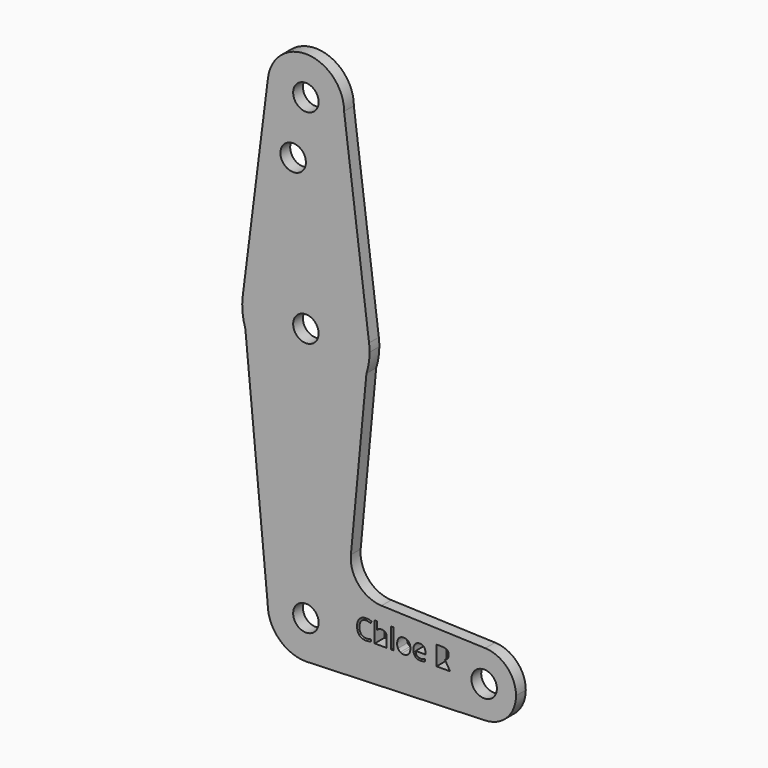
from build123d import *

# Parameters (mm, degrees)
F0_R     = 3.175
F1_DEPTH = 3.048


with BuildPart() as f1:
    # F0 (on Front) → F1 (new body)
    with BuildSketch(Plane.XZ):
        with BuildLine():
            ThreePointArc((0.6773435479, -9.500885786), (6.9705567315, -6.4912990883), (9.525, 0))
            ThreePointArc((9.525, 0), (0, 9.525), (-9.525, 0))
            ThreePointArc((-9.525, 0), (-6.7351920908, -6.7351920908), (0, -9.525))
            Line((0, -9.525), (0.6773435479, -9.500885786))
        make_face()
        Circle(F0_R, mode=Mode.SUBTRACT)
        with BuildLine():
            ThreePointArc((-9.525, 0), (0, 9.525), (9.525, 0))
            Line((9.525, 0), (14.331017163, 0))
            add(Edge.make_bspline(
                [(14.331017163, 0), (13.7183681716, 0.1397724716), (13.3282485764, 0.5757675707)],
                knots=[0.3205826669, 0.3205826669, 0.3205826669, 1, 1, 1], degree=2))
            add(Edge.make_bspline(
                [(13.3282485764, 0.5757675707), (12.7540512809, 1.2174866995), (12.7540512809, 2.3983336445)],
                knots=[0, 0, 0, 1, 1, 1], degree=2))
            add(Edge.make_bspline(
                [(12.7540512809, 2.3983336445), (12.7540512809, 3.1374098353), (13.0304197148, 3.6932872536)],
                knots=[0, 0, 0, 1, 1, 1], degree=2))
            add(Edge.make_bspline(
                [(13.0304197148, 3.6932872536), (13.3067881487, 4.2491646718), (13.8286429378, 4.5501340838)],
                knots=[0, 0, 0, 1, 1, 1], degree=2))
            add(Edge.make_bspline(
                [(13.8286429378, 4.5501340838), (14.3504977269, 4.8511034957), (15.0571215637, 4.8511034957)],
                knots=[0, 0, 0, 1, 1, 1], degree=2))
            add(Edge.make_bspline(
                [(15.0571215637, 4.8511034957), (15.808759956, 4.8511034957), (16.3719653252, 4.5768287621)],
                knots=[0, 0, 0, 1, 1, 1], degree=2))
            Line((16.3719653252, 4.5768287621), (16.1364240462, 4.0994651034))
            add(Edge.make_bspline(
                [(16.1364240462, 4.0994651034), (15.5931088295, 4.3538496847), (15.0497936128, 4.3538496847)],
                knots=[0, 0, 0, 1, 1, 1], degree=2))
            add(Edge.make_bspline(
                [(15.0497936128, 4.3538496847), (14.261515466, 4.3538496847), (13.8050888099, 3.8288543452)],
                knots=[0, 0, 0, 1, 1, 1], degree=2))
            add(Edge.make_bspline(
                [(13.8050888099, 3.8288543452), (13.3486621539, 3.3038590057), (13.3486621539, 2.3910056936)],
                knots=[0, 0, 0, 1, 1, 1], degree=2))
            add(Edge.make_bspline(
                [(13.3486621539, 2.3910056936), (13.3486621539, 1.4530279784), (13.7888626329, 0.9405948405)],
                knots=[0, 0, 0, 1, 1, 1], degree=2))
            add(Edge.make_bspline(
                [(13.7888626329, 0.9405948405), (14.229063112, 0.4281617026), (15.043512512, 0.4281617026)],
                knots=[0, 0, 0, 1, 1, 1], degree=2))
            add(Edge.make_bspline(
                [(15.043512512, 0.4281617026), (15.5439068735, 0.4281617026), (16.1856260023, 0.6082199247)],
                knots=[0, 0, 0, 1, 1, 1], degree=2))
            Line((16.1856260023, 0.6082199247), (16.1856260023, 0.1214346149))
            add(Edge.make_bspline(
                [(16.1856260023, 0.1214346149), (15.9833720986, 0.045216828), (15.7426700783, 0)],
                knots=[0, 0, 0, 0.406741787, 0.406741787, 0.406741787], degree=2))
            Line((15.7426700783, 0), (17.1476812704, 0))
            Line((17.1476812704, 0), (17.1476812704, 5.0908321752))
            Line((17.1476812704, 5.0908321752), (17.6909964871, 5.0908321752))
            Line((17.6909964871, 5.0908321752), (17.6909964871, 3.5498687859))
            add(Edge.make_bspline(
                [(17.6909964871, 3.5498687859), (17.6909964871, 3.2714066517), (17.6648252339, 3.0882078792)],
                knots=[0, 0, 0, 1, 1, 1], degree=2))
            Line((17.6648252339, 3.0882078792), (17.6972775879, 3.0882078792))
            add(Edge.make_bspline(
                [(17.6972775879, 3.0882078792), (17.8574456576, 3.346779861), (18.153704244, 3.4954325793)],
                knots=[0, 0, 0, 1, 1, 1], degree=2))
            add(Edge.make_bspline(
                [(18.153704244, 3.4954325793), (18.4499628303, 3.6440852975), (18.8289225769, 3.6440852975)],
                knots=[0, 0, 0, 1, 1, 1], degree=2))
            add(Edge.make_bspline(
                [(18.8289225769, 3.6440852975), (19.4863444576, 3.6440852975), (19.8155788231, 3.3316005341)],
                knots=[0, 0, 0, 1, 1, 1], degree=2))
            add(Edge.make_bspline(
                [(19.8155788231, 3.3316005341), (20.1448131885, 3.0191157708), (20.1448131885, 2.3386631872)],
                knots=[0, 0, 0, 1, 1, 1], degree=2))
            Line((20.1448131885, 2.3386631872), (20.1448131885, 0))
            Line((20.1448131885, 0), (21.2597085754, 0))
            Line((21.2597085754, 0), (21.2597085754, 5.0908321752))
            Line((21.2597085754, 5.0908321752), (21.8030237921, 5.0908321752))
            Line((21.8030237921, 5.0908321752), (21.8030237921, 0))
            Line((21.8030237921, 0), (23.8993166222, 0))
            add(Edge.make_bspline(
                [(23.8993166222, 0), (23.7048762281, 0.0561669981), (23.5334670546, 0.1601680697)],
                knots=[0.5400617249, 0.5400617249, 0.5400617249, 1, 1, 1], degree=2))
            add(Edge.make_bspline(
                [(23.5334670546, 0.1601680697), (23.1607884089, 0.3862876974), (22.9576994839, 0.8081682992)],
                knots=[0, 0, 0, 1, 1, 1], degree=2))
            add(Edge.make_bspline(
                [(22.9576994839, 0.8081682992), (22.754610559, 1.2300489011), (22.754610559, 1.7963948206)],
                knots=[0, 0, 0, 1, 1, 1], degree=2))
            add(Edge.make_bspline(
                [(22.754610559, 1.7963948206), (22.754610559, 2.6726083782), (23.1932407628, 3.1620108133)],
                knots=[0, 0, 0, 1, 1, 1], degree=2))
            add(Edge.make_bspline(
                [(23.1932407628, 3.1620108133), (23.6318709667, 3.6514132484), (24.4107274624, 3.6514132484)],
                knots=[0, 0, 0, 1, 1, 1], degree=2))
            add(Edge.make_bspline(
                [(24.4107274624, 3.6514132484), (25.1623658547, 3.6514132484), (25.6057068841, 3.1504954619)],
                knots=[0, 0, 0, 1, 1, 1], degree=2))
            add(Edge.make_bspline(
                [(25.6057068841, 3.1504954619), (26.0490479136, 2.6495776754), (26.0490479136, 1.7963948206)],
                knots=[0, 0, 0, 1, 1, 1], degree=2))
            add(Edge.make_bspline(
                [(26.0490479136, 1.7963948206), (26.0490479136, 0.9191344129), (25.6078005844, 0.4265914274)],
                knots=[0, 0, 0, 1, 1, 1], degree=2))
            add(Edge.make_bspline(
                [(25.6078005844, 0.4265914274), (25.3280160816, 0.1142815613), (24.9124948555, 0)],
                knots=[0, 0, 0, 0.6340763655, 0.6340763655, 0.6340763655], degree=2))
            Line((24.9124948555, 0), (27.9757976787, 0))
            add(Edge.make_bspline(
                [(27.9757976787, 0), (27.5521982697, 0.1128392886), (27.2618237875, 0.4187400514)],
                knots=[0.3688754729, 0.3688754729, 0.3688754729, 1, 1, 1], degree=2))
            add(Edge.make_bspline(
                [(27.2618237875, 0.4187400514), (26.801733156, 0.9034316609), (26.801733156, 1.7628956165)],
                knots=[0, 0, 0, 1, 1, 1], degree=2))
            add(Edge.make_bspline(
                [(26.801733156, 1.7628956165), (26.801733156, 2.6307343731), (27.2288480084, 3.1410738107)],
                knots=[0, 0, 0, 1, 1, 1], degree=2))
            add(Edge.make_bspline(
                [(27.2288480084, 3.1410738107), (27.6559628609, 3.6514132484), (28.3761957493, 3.6514132484)],
                knots=[0, 0, 0, 1, 1, 1], degree=2))
            add(Edge.make_bspline(
                [(28.3761957493, 3.6514132484), (29.049320382, 3.6514132484), (29.4418891802, 3.208072219)],
                knots=[0, 0, 0, 1, 1, 1], degree=2))
            add(Edge.make_bspline(
                [(29.4418891802, 3.208072219), (29.8344579784, 2.7647311895), (29.8344579784, 2.0382172003)],
                knots=[0, 0, 0, 1, 1, 1], degree=2))
            Line((29.8344579784, 2.0382172003), (29.8344579784, 1.6948503581))
            Line((29.8344579784, 1.6948503581), (27.3649385251, 1.6948503581))
            add(Edge.make_bspline(
                [(27.3649385251, 1.6948503581), (27.3816881272, 1.0635997306), (27.6842278144, 0.7364590654)],
                knots=[0, 0, 0, 1, 1, 1], degree=2))
            add(Edge.make_bspline(
                [(27.6842278144, 0.7364590654), (27.9867675015, 0.4093184003), (28.536363819, 0.4093184003)],
                knots=[0, 0, 0, 1, 1, 1], degree=2))
            add(Edge.make_bspline(
                [(28.536363819, 0.4093184003), (29.1152719401, 0.4093184003), (29.6805710095, 0.65114078)],
                knots=[0, 0, 0, 1, 1, 1], degree=2))
            Line((29.6805710095, 0.65114078), (29.6805710095, 0.1664491704))
            add(Edge.make_bspline(
                [(29.6805710095, 0.1664491704), (29.4213281794, 0.0552104288), (29.1875527642, 0)],
                knots=[0, 0, 0, 0.9005120931, 0.9005120931, 0.9005120931], degree=2))
            Line((29.1875527642, 0), (32.583486416, 0))
            Line((32.583486416, 0), (32.583486416, 4.7830582374))
            Line((32.583486416, 4.7830582374), (33.8951896271, 4.7830582374))
            add(Edge.make_bspline(
                [(33.8951896271, 4.7830582374), (34.7755905852, 4.7830582374), (35.1959009118, 4.445972496)],
                knots=[0, 0, 0, 1, 1, 1], degree=2))
            add(Edge.make_bspline(
                [(35.1959009118, 4.445972496), (35.6162112384, 4.1088867546), (35.6162112384, 3.4315747214)],
                knots=[0, 0, 0, 1, 1, 1], degree=2))
            add(Edge.make_bspline(
                [(35.6162112384, 3.4315747214), (35.6162112384, 2.4831285049), (34.6541559703, 2.1491833139)],
                knots=[0, 0, 0, 1, 1, 1], degree=2))
            Line((34.6541559703, 2.1491833139), (35.9532969798, 0))
            Line((35.9532969798, 0), (36.5125, 0))
            ThreePointArc((36.5125, 0), (38.9380895153, 5.7116327839), (44.7324052746, 7.9324746146))
            Line((44.7324052746, 7.9324746146), (18.854776384, 8.8537481448))
            ThreePointArc((18.854776384, 8.8537481448), (13.1636347791, 11.5532480081), (11.2225788762, 17.545634366))
            Line((11.2225788762, 17.545634366), (15.0940259351, 58.5820729906))
            ThreePointArc((15.0940259351, 58.5820729906), (-0.0006204693, 47.6250000121), (-15.0944103202, 58.583252896))
            Line((-15.0944103202, 58.583252896), (-9.525, 0))
        make_face()
        with BuildLine():
            Line((14.331017163, 0), (9.525, 0))
            ThreePointArc((9.525, 0), (6.9705567315, -6.4912990883), (0.6773435479, -9.500885786))
            Line((0.6773435479, -9.500885786), (44.7324052746, -7.9324746146))
            ThreePointArc((44.7324052746, -7.9324746146), (38.9380895153, -5.7116327839), (36.5125, 0))
            Line((36.5125, 0), (35.9532969798, 0))
            Line((35.9532969798, 0), (35.2958750991, 0))
            Line((35.2958750991, 0), (33.1393638343, 0))
            Line((33.1393638343, 0), (32.583486416, 0))
            Line((32.583486416, 0), (29.1875527642, 0))
            add(Edge.make_bspline(
                [(29.1875527642, 0), (29.1617254301, -0.0060996071), (29.1362089427, -0.0115153514)],
                knots=[0.9005120931, 0.9005120931, 0.9005120931, 1, 1, 1], degree=2))
            add(Edge.make_bspline(
                [(29.1362089427, -0.0115153514), (28.8797306612, -0.0659515581), (28.5164736666, -0.0659515581)],
                knots=[0, 0, 0, 1, 1, 1], degree=2))
            add(Edge.make_bspline(
                [(28.5164736666, -0.0659515581), (28.2233802484, -0.0659515581), (27.9757976787, 0)],
                knots=[0, 0, 0, 0.3688754729, 0.3688754729, 0.3688754729], degree=2))
            Line((27.9757976787, 0), (24.9124948555, 0))
            add(Edge.make_bspline(
                [(24.9124948555, 0), (24.6726987592, -0.0659515581), (24.3876967595, -0.0659515581)],
                knots=[0.6340763655, 0.6340763655, 0.6340763655, 1, 1, 1], degree=2))
            add(Edge.make_bspline(
                [(24.3876967595, -0.0659515581), (24.1276294639, -0.0659515581), (23.8993166222, 0)],
                knots=[0, 0, 0, 0.5400617249, 0.5400617249, 0.5400617249], degree=2))
            Line((23.8993166222, 0), (21.8030237921, 0))
            Line((21.8030237921, 0), (21.2597085754, 0))
            Line((21.2597085754, 0), (20.1448131885, 0))
            Line((20.1448131885, 0), (19.6014979718, 0))
            Line((19.6014979718, 0), (17.6909964871, 0))
            Line((17.6909964871, 0), (17.1476812704, 0))
            Line((17.1476812704, 0), (15.7426700783, 0))
            add(Edge.make_bspline(
                [(15.7426700783, 0), (15.3915911999, -0.0659515581), (14.9587176516, -0.0659515581)],
                knots=[0.406741787, 0.406741787, 0.406741787, 1, 1, 1], degree=2))
            add(Edge.make_bspline(
                [(14.9587176516, -0.0659515581), (14.6200952275, -0.0659515581), (14.331017163, 0)],
                knots=[0, 0, 0, 0.3205826669, 0.3205826669, 0.3205826669], degree=2))
        make_face()
        with BuildLine():
            ThreePointArc((0, -9.525), (0.3388863295, -9.5189695375), (0.6773435479, -9.500885786))
            Line((0.6773435479, -9.500885786), (0, -9.525))
        make_face()
        with BuildLine():
            Line((-15.7504882737, 65.484375), (-15.0944103202, 58.583252896))
            ThreePointArc((-15.0944103202, 58.583252896), (-0.0006204693, 47.6250000121), (15.0940259351, 58.5820729906))
            Line((15.0940259351, 58.5820729906), (15.7474569047, 65.5082893304))
            ThreePointArc((15.7474569047, 65.5082893304), (-0.0120528461, 79.3749954245), (-15.7504882737, 65.484375))
        make_face()
        with Locations((0, 63.5)):
            Circle(F0_R, mode=Mode.SUBTRACT)
        with BuildLine():
            ThreePointArc((-15.7504882737, 65.484375), (-15.8037436669, 61.9975649401), (-15.0944103202, 58.583252896))
            Line((-15.0944103202, 58.583252896), (-15.7504882737, 65.484375))
        make_face()
        with BuildLine():
            ThreePointArc((36.5125, 0), (38.9380895153, -5.7116327839), (44.7324052746, -7.9324746146))
            ThreePointArc((44.7324052746, -7.9324746146), (50.1616327839, -5.5119104847), (52.3875, 0))
            ThreePointArc((52.3875, 0), (50.1616327839, 5.5119104847), (44.7324052746, 7.9324746146))
            ThreePointArc((44.7324052746, 7.9324746146), (38.9380895153, 5.7116327839), (36.5125, 0))
        make_face()
        with BuildLine():
            ThreePointArc((47.625, 0), (44.45, -3.175), (41.275, 0))
            ThreePointArc((41.275, 0), (44.45, 3.175), (47.625, 0))
        make_face(mode=Mode.SUBTRACT)
        with BuildLine():
            Line((-9.4502929642, 115.490625), (-15.7504882737, 65.484375))
            ThreePointArc((-15.7504882737, 65.484375), (-0.0120528461, 79.3749954245), (15.7474569047, 65.5082893304))
            Line((15.7474569047, 65.5082893304), (9.525, 114.3))
            ThreePointArc((9.525, 114.3), (-0.596483242, 104.7936951058), (-9.4502929642, 115.490625))
        make_face()
        with Locations((-3.175, 100.0252)):
            Circle(F0_R, mode=Mode.SUBTRACT)
        with BuildLine():
            Line((15.7474569047, 65.5082893304), (15.0940259351, 58.5820729906))
            ThreePointArc((15.0940259351, 58.5820729906), (15.6785408556, 61.0102245804), (15.875, 63.5))
            ThreePointArc((15.875, 63.5), (15.8430821396, 64.5061676396), (15.7474569047, 65.5082893304))
        make_face()
        with BuildLine():
            ThreePointArc((9.525, 114.3), (0.596483242, 123.8063048942), (-9.4502929642, 115.490625))
            ThreePointArc((-9.4502929642, 115.490625), (-0.596483242, 104.7936951058), (9.525, 114.3))
        make_face()
        with Locations((0, 114.3)):
            Circle(F0_R, mode=Mode.SUBTRACT)
    extrude(amount=F1_DEPTH)


solid = f1.part
